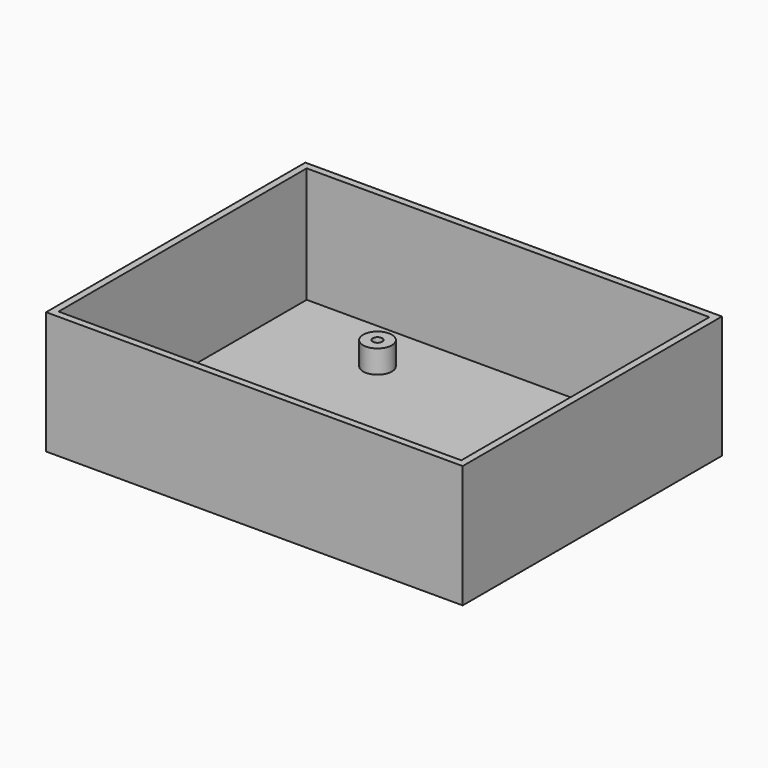
from build123d import *

# Parameters (mm, degrees)
F0_W     = 90
F0_H     = 70
F0_W_2   = 87
F0_H_2   = 67
F1_DEPTH = 25
F0_R     = 3.1
F0_R_2   = 1.025
F2_DEPTH = 1.5
F3_DEPTH = 5


with BuildPart() as f1:
    # F0 (on Top) → F1 (new body)
    with BuildSketch(Plane.XY):
        with Locations((-0.797456, -0.095572)):
            Rectangle(F0_W, F0_H)
        with Locations((-0.797456, -0.095572)):
            Rectangle(F0_W_2, F0_H_2, mode=Mode.SUBTRACT)
    extrude(amount=F1_DEPTH)

    # F0 (on Top) → F2 (join)
    with BuildSketch(Plane.XY):
        with Locations((-0.797456, -0.095572)):
            Rectangle(F0_W, F0_H)
        with Locations((-0.797456, -0.095572)):
            Rectangle(F0_W_2, F0_H_2, mode=Mode.SUBTRACT)
        with Locations((-0.797456, -0.095572)):
            Rectangle(F0_W_2, F0_H_2)
        with Locations((-19.797456, -27.095572)):
            Circle(F0_R, mode=Mode.SUBTRACT)
        with Locations((38.202544, -27.095572)):
            Circle(F0_R, mode=Mode.SUBTRACT)
        with Locations((-19.797456, 21.904428)):
            Circle(F0_R, mode=Mode.SUBTRACT)
        with Locations((38.202544, 21.904428)):
            Circle(F0_R, mode=Mode.SUBTRACT)
        with Locations((38.202544, -27.095572)):
            Circle(F0_R)
        with Locations((38.202544, -27.095572)):
            Circle(F0_R_2, mode=Mode.SUBTRACT)
        with Locations((38.202544, -27.095572)):
            Circle(F0_R_2)
        with Locations((38.202544, 21.904428)):
            Circle(F0_R)
        with Locations((38.202544, 21.904428)):
            Circle(F0_R_2, mode=Mode.SUBTRACT)
        with Locations((38.202544, 21.904428)):
            Circle(F0_R_2)
        with Locations((-19.797456, 21.904428)):
            Circle(F0_R)
        with Locations((-19.797456, 21.904428)):
            Circle(F0_R_2, mode=Mode.SUBTRACT)
        with Locations((-19.797456, 21.904428)):
            Circle(F0_R_2)
        with Locations((-19.797456, -27.095572)):
            Circle(F0_R)
        with Locations((-19.797456, -27.095572)):
            Circle(F0_R_2, mode=Mode.SUBTRACT)
        with Locations((-19.797456, -27.095572)):
            Circle(F0_R_2)
    extrude(amount=-F2_DEPTH)

    # F0 (on Top) → F3 (join)
    with BuildSketch(Plane.XY):
        with Locations((-19.797456, 21.904428)):
            Circle(F0_R)
        with Locations((-19.797456, 21.904428)):
            Circle(F0_R_2, mode=Mode.SUBTRACT)
        with Locations((38.202544, 21.904428)):
            Circle(F0_R)
        with Locations((38.202544, 21.904428)):
            Circle(F0_R_2, mode=Mode.SUBTRACT)
        with Locations((38.202544, -27.095572)):
            Circle(F0_R)
        with Locations((38.202544, -27.095572)):
            Circle(F0_R_2, mode=Mode.SUBTRACT)
        with Locations((-19.797456, -27.095572)):
            Circle(F0_R)
        with Locations((-19.797456, -27.095572)):
            Circle(F0_R_2, mode=Mode.SUBTRACT)
    extrude(amount=F3_DEPTH)


solid = f1.part
